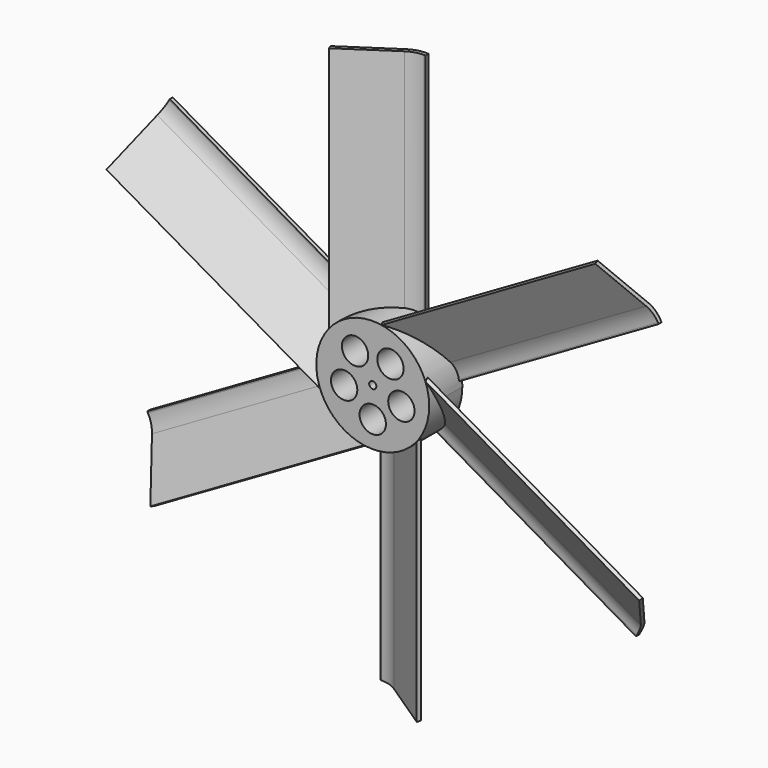
from build123d import *

# Parameters (mm, degrees)
F1_DEPTH  = 75
F2_R      = 7.644408
F4_COUNT  = 6
F5_R      = 15
F6_DEPTH  = 11
F7_R      = 3.5
F7_R_2    = 0.95
F8_DEPTH  = 25
F10_DEPTH = 1
F11_R     = 2.5
F11_R_2   = 0.95
F12_DEPTH = 6


with BuildPart() as f1:
    # F0 (on Top) → F1 (new body)
    with BuildSketch(Plane.XY):
        Polygon((11.672223, -10.983332), (12, -10), (-3, 0), (-3.327777, -0.983332), align=None)
        Polygon((-3.327777, -0.983332), (-3, 0), (-6, 0), (-6, -0.983332), align=None)
    extrude(amount=-F1_DEPTH)

    # F2
    f2_edges = [f1.edges().sort_by_distance(p)[0] for p in [
        (-3.327777, -0.983332, -37.5),
        (-3, 0, -37.5),
    ]]
    fillet(f2_edges, radius=F2_R)



with BuildPart() as f4_1:
    # F4: instance of F1
    add(f1.part.rotate(Axis((0, 13.525062, 0), (0, 1, 0)), 1 * 360 / F4_COUNT))


with BuildPart() as f4_2:
    # F4: instance of F1
    add(f1.part.rotate(Axis((0, 13.525062, 0), (0, 1, 0)), 2 * 360 / F4_COUNT))


with BuildPart() as f4_3:
    # F4: instance of F1
    add(f1.part.rotate(Axis((0, 13.525062, 0), (0, 1, 0)), 3 * 360 / F4_COUNT))


with BuildPart() as f4_4:
    # F4: instance of F1
    add(f1.part.rotate(Axis((0, 13.525062, 0), (0, 1, 0)), 4 * 360 / F4_COUNT))


with BuildPart() as f4_5:
    # F4: instance of F1
    add(f1.part.rotate(Axis((0, 13.525062, 0), (0, 1, 0)), 5 * 360 / F4_COUNT))


with BuildPart() as f1_1:
    add(f1.part)

    add(f4_1.part)  # F6 merges F4_1

    add(f4_2.part)  # F6 merges F4_2

    add(f4_3.part)  # F6 merges F4_3

    add(f4_4.part)  # F6 merges F4_4

    add(f4_5.part)  # F6 merges F4_5
    # F5 (on Front) → F6 (join)
    with BuildSketch(Plane.XZ):
        Circle(F5_R)
    extrude(amount=F6_DEPTH)

    # F7 (on face) → F8 (cut)
    with BuildSketch(Plane(origin=(0, 0, 0), x_dir=(-1, 0, 0), z_dir=(0, 1, 0))):
        with Locations((-4.702282, 6.472136)):
            Circle(F7_R)
        with Locations((-7.608452, -2.472136)):
            Circle(F7_R)
        with Locations((0, -8)):
            Circle(F7_R)
        with Locations((7.608452, -2.472136)):
            Circle(F7_R)
        with Locations((4.702282, 6.472136)):
            Circle(F7_R)
        Circle(F7_R_2)
    extrude(amount=-F8_DEPTH, mode=Mode.SUBTRACT)

    # F9 (on face) → F10 (cut)
    with BuildSketch(Plane(origin=(0, 0, 0), x_dir=(-1, 0, 0), z_dir=(0, 1, 0))):
        with BuildLine():
            ThreePointArc((5.158171, -12.103592), (-1.067262, -13.113528), (-7.047458, -11.110221))
            Line((-7.047458, -11.110221), (-7.288358, -11.549476))
            ThreePointArc((-7.288358, -11.549476), (-1.091943, -13.613164), (5.354197, -12.563564))
            Line((5.354197, -12.563564), (5.746248, -13.483508))
            Line((5.746248, -13.483508), (7.096071, -11.549476))
            Line((7.096071, -11.549476), (4.76612, -11.183649))
            Line((4.76612, -11.183649), (5.158171, -12.103592))
        make_face()
        with BuildLine():
            Line((8.803936, 11.71815), (6.454104, 11.920116))
            Line((6.454104, 11.920116), (7.302264, 9.719405))
            Line((7.302264, 9.719405), (7.902933, 10.518903))
            ThreePointArc((7.902933, 10.518903), (11.89028, 5.632489), (13.145463, -0.548167))
            Line((13.145463, -0.548167), (13.646319, -0.537165))
            ThreePointArc((13.646319, -0.537165), (12.335317, 5.860932), (8.203267, 10.918652))
            Line((8.203267, 10.918652), (8.803936, 11.71815))
        make_face()
        with BuildLine():
            Line((-14.550184, 1.765357), (-13.550175, -0.370639))
            Line((-13.550175, -0.370639), (-12.068384, 1.464243))
            Line((-12.068384, 1.464243), (-13.061104, 1.584689))
            ThreePointArc((-13.061104, 1.584689), (-10.823018, 7.48104), (-6.098005, 11.658388))
            Line((-6.098005, 11.658388), (-6.357961, 12.086641))
            ThreePointArc((-6.357961, 12.086641), (-11.243374, 7.752232), (-13.557464, 1.644912))
            Line((-13.557464, 1.644912), (-14.550184, 1.765357))
        make_face()
    extrude(amount=-F10_DEPTH, mode=Mode.SUBTRACT)

    # F11 (on face) → F12 (join)
    with BuildSketch(Plane(origin=(0, 0, 0), x_dir=(-1, 0, 0), z_dir=(0, 1, 0))):
        Circle(F11_R)
        Circle(F11_R_2, mode=Mode.SUBTRACT)
    extrude(amount=F12_DEPTH)


solid = f1_1.part
